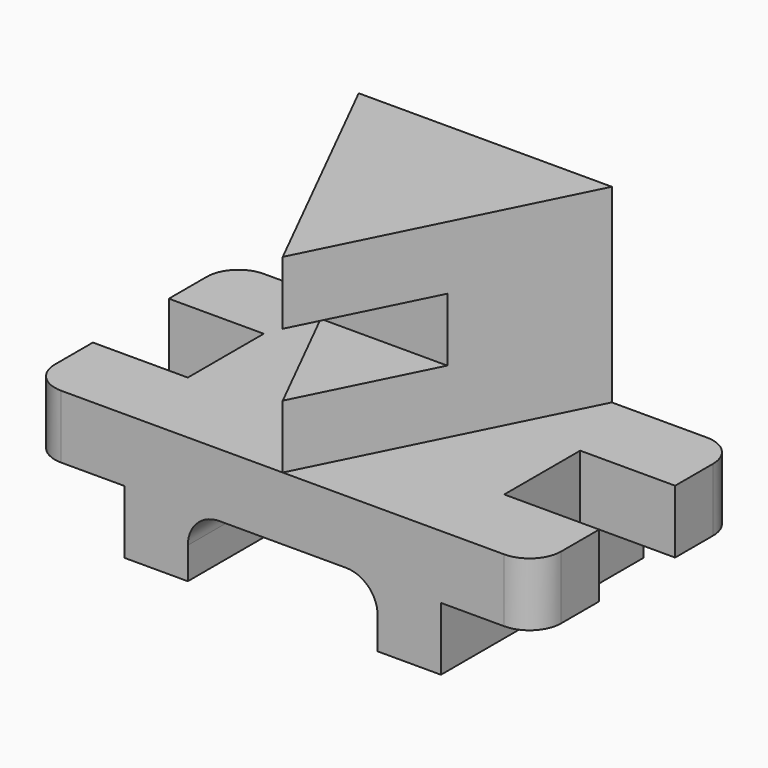
from build123d import *

# Parameters (mm, degrees)
F1_DEPTH = 50.8
F2_W     = 38.1
F2_H     = 38.1
F3_DEPTH = 50.801
F4_R     = 12.7
F7_DEPTH = 76.2
F8_DEPTH = 76.2
F6_W     = 50.8
F6_H     = 25.4
F9_DEPTH = 50.8


with BuildPart() as f1:
    # F0 (on Front) → F1 (new body, symmetric)
    with BuildSketch(Plane.XZ):
        with BuildLine():
            Line((0, -25.4), (0, 0))
            Line((0, 0), (-101.6, 0))
            Line((-101.6, 0), (-101.6, -25.4))
            Line((-101.6, -25.4), (-63.5, -25.4))
            Line((-63.5, -25.4), (-63.5, -50.8))
            Line((-63.5, -50.8), (-38.1, -50.8))
            Line((-38.1, -50.8), (-38.1, -38.1))
            ThreePointArc((-38.1, -38.1), (-34.380256, -29.119744), (-25.4, -25.4))
            Line((-25.4, -25.4), (0, -25.4))
        make_face()
        with BuildLine():
            Line((101.6, 0), (0, 0))
            Line((0, 0), (0, -25.4))
            Line((0, -25.4), (25.4, -25.4))
            ThreePointArc((25.4, -25.4), (34.380256, -29.119744), (38.1, -38.1))
            Line((38.1, -38.1), (38.1, -50.8))
            Line((38.1, -50.8), (63.5, -50.8))
            Line((63.5, -50.8), (63.5, -25.4))
            Line((63.5, -25.4), (101.6, -25.4))
            Line((101.6, -25.4), (101.6, 0))
        make_face()
    extrude(amount=F1_DEPTH, both=True)

    # F2 (on Top) → F3 (cut, through all)
    with BuildSketch(Plane.XY):
        with Locations((-82.55, 0)):
            Rectangle(F2_W, F2_H)
        with Locations((82.55, 0)):
            Rectangle(F2_W, F2_H)
    extrude(amount=-F3_DEPTH, mode=Mode.SUBTRACT)

    # F4
    f4_edges = [f1.edges().sort_by_distance(p)[0] for p in [
        (101.6, -50.8, -12.7),
        (101.6, 50.8, -12.7),
        (-101.6, -50.8, -12.7),
        (-101.6, 50.8, -12.7),
    ]]
    fillet(f4_edges, radius=F4_R)

    # F5 (on Top) → F7 (join)
    with BuildSketch(Plane.XY):
        Polygon((0, 50.8), (0, -50.8), (50.8, 50.8), align=None)
    extrude(amount=F7_DEPTH)

    # F5 (on Top) → F8 (join)
    with BuildSketch(Plane.XY):
        Polygon((-50.8, 50.8), (0, -50.8), (0, 50.8), align=None)
    extrude(amount=F8_DEPTH)

    # F6 (on Right) → F9 (cut, symmetric)
    with BuildSketch(Plane.YZ):
        with Locations((-25.4, 38.1)):
            Rectangle(F6_W, F6_H)
    extrude(amount=F9_DEPTH, both=True, mode=Mode.SUBTRACT)


solid = f1.part
